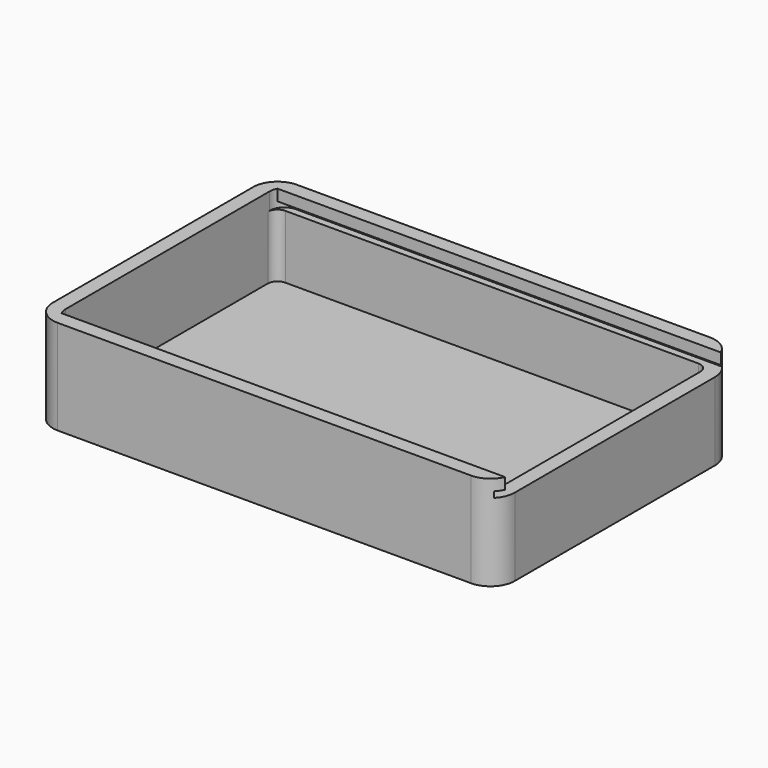
from build123d import *

# Parameters (mm, degrees)
F0_W     = 89
F0_H     = 55.5
F1_DEPTH = 3
F0_W_2   = 95
F0_H_2   = 61.5
F2_DEPTH = 16
F4_DEPTH = 95
F5_W     = 61.5
F5_H     = 3.5
F6_DEPTH = 3
F7_R     = 5
F8_R     = 2
F9_R     = 3


with BuildPart() as f1:
    # F0 (on Top) → F1 (new body)
    with BuildSketch(Plane.XY):
        Rectangle(F0_W, F0_H)
    extrude(amount=F1_DEPTH)

    # F0 (on Top) → F2 (join)
    with BuildSketch(Plane.XY):
        Rectangle(F0_W_2, F0_H_2)
        Rectangle(F0_W, F0_H, mode=Mode.SUBTRACT)
    extrude(amount=F2_DEPTH)

    # F3 (on face) → F4 (join, through all)
    with BuildSketch(Plane.YZ.offset(47.5)):
        Polygon((29.25, 16), (30.75, 16), (30.75, 19.5), (27.75, 19.5), (27.75, 17.2), (29.25, 17.2), align=None)
        Polygon((-29.25, 17.2), (-27.75, 17.2), (-27.75, 19.5), (-30.75, 19.5), (-30.75, 16), (-29.25, 16), align=None)
    extrude(amount=-F4_DEPTH)

    # F5 (on face) → F6 (join)
    with BuildSketch(Plane(origin=(-47.5, 0, 0), x_dir=(0, -1, 0), z_dir=(-1, 0, 0))):
        with Locations((0, 17.75)):
            Rectangle(F5_W, F5_H)
    extrude(amount=-F6_DEPTH)

    # F7
    f7_edges = [f1.edges().sort_by_distance(p)[0] for p in [
        (47.5, -30.75, 9.75),
        (-47.5, -30.75, 9.75),
        (47.5, 30.75, 9.75),
        (-47.5, 30.75, 9.75),
    ]]
    fillet(f7_edges, radius=F7_R)

    # F8
    f8_edges = [f1.edges().sort_by_distance(p)[0] for p in [
        (-44.5, 27.75, 9.5),
        (-44.5, -27.75, 9.5),
        (44.5, -27.75, 9.5),
        (44.5, 27.75, 9.5),
    ]]
    fillet(f8_edges, radius=F8_R)

    # F9
    f9_edges = [f1.edges().sort_by_distance(p)[0] for p in [
        (-44.5, -29.25, 16.6),
        (-44.5, 29.25, 16.6),
    ]]
    fillet(f9_edges, radius=F9_R)


solid = f1.part
